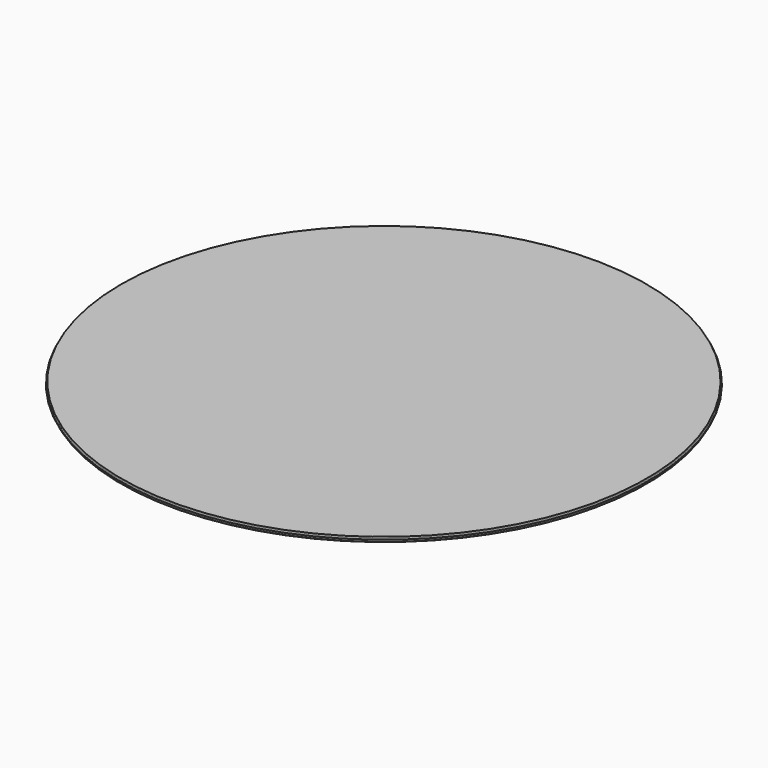
from build123d import *


with BuildPart() as f1:
    # F0 (on Front) → F1 (revolve)
    with BuildSketch(Plane.XZ):
        with BuildLine():
            Line((0, 6.838791), (0, 9.538791))
            Line((0, 9.538791), (-20.181025, 9.538791))
            Line((-20.181025, 9.538791), (-20.309017, 9.538791))
            Line((-20.309017, 9.538791), (-152.104487, 9.538791))
            Line((-152.104487, 9.538791), (-152.233252, 8.802641))
            ThreePointArc((-152.233252, 8.802641), (-152.404118, 8.505989), (-152.725774, 8.388791))
            Line((-152.725774, 8.388791), (-152.725774, 7.988791))
            ThreePointArc((-152.725774, 7.988791), (-152.404118, 7.871594), (-152.233252, 7.574942))
            Line((-152.233252, 7.574942), (-152.104487, 6.838791))
            Line((-152.104487, 6.838791), (-20.309017, 6.838791))
            Line((-20.309017, 6.838791), (-20.181025, 6.838791))
            Line((-20.181025, 6.838791), (0, 6.838791))
        make_face()
    revolve(axis=Axis((0, 0, -43.787105), (0, 0, -1)))


solid = f1.part
